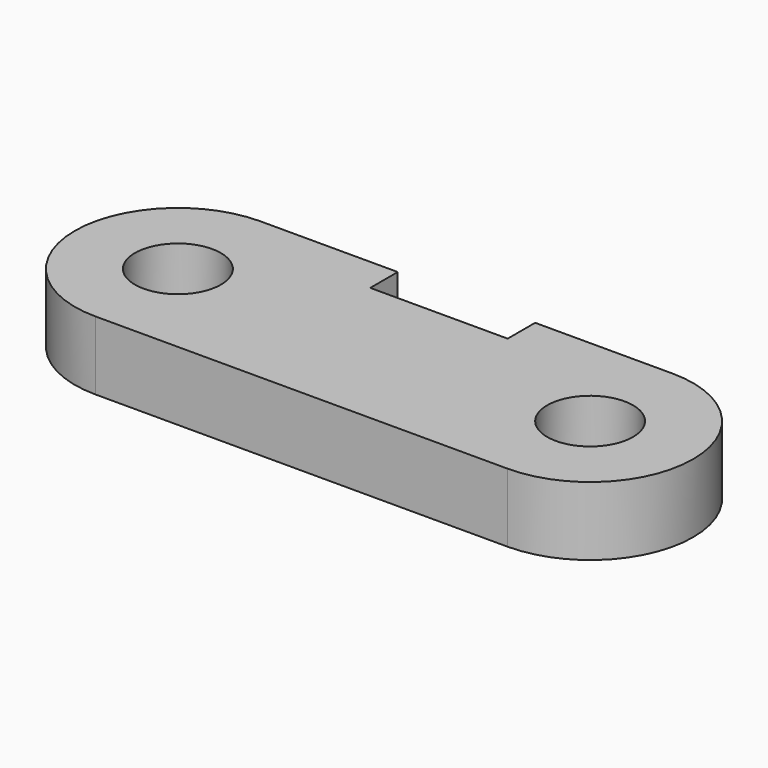
from build123d import *

# Parameters (mm, degrees)
F0_R     = 15.875
F1_DEPTH = 25.4


with BuildPart() as f1:
    # F0 (on Top) → F1 (new body)
    with BuildSketch(Plane.XY):
        with BuildLine():
            Line((-93.816891, -38.1), (58.583109, -38.1))
            ThreePointArc((58.583109, -38.1), (96.683109, 0), (58.583109, 38.1))
            Line((58.583109, 38.1), (7.783109, 38.1))
            Line((7.783109, 38.1), (7.783109, 25.4))
            Line((7.783109, 25.4), (-43.016891, 25.4))
            Line((-43.016891, 25.4), (-43.016891, 38.1))
            Line((-43.016891, 38.1), (-93.816891, 38.1))
            ThreePointArc((-93.816891, 38.1), (-131.916891, 0), (-93.816891, -38.1))
        make_face()
        with Locations((-93.816891, 0)):
            Circle(F0_R, mode=Mode.SUBTRACT)
        with Locations((58.583109, 0)):
            Circle(F0_R, mode=Mode.SUBTRACT)
    extrude(amount=F1_DEPTH)


solid = f1.part
